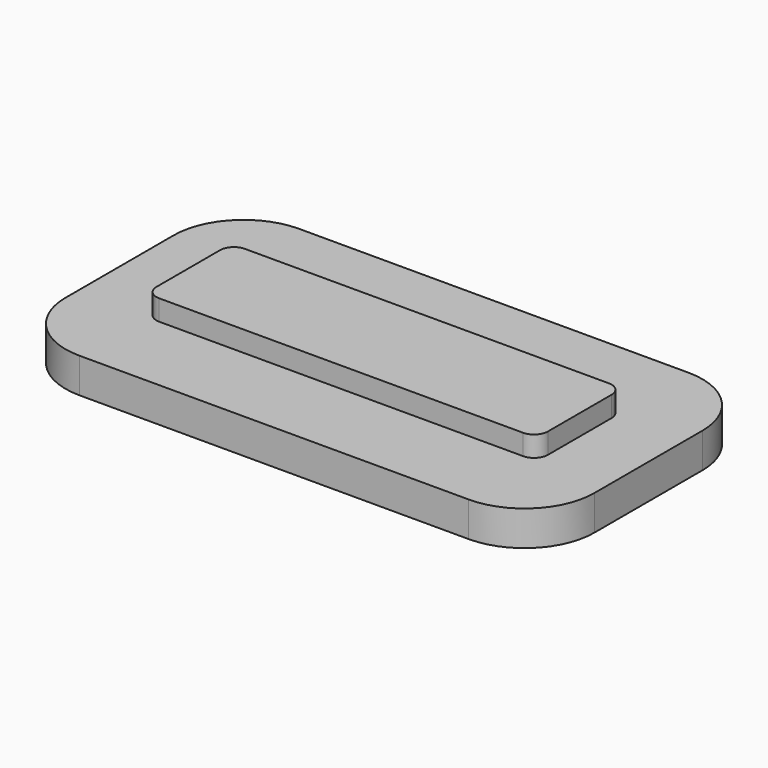
from build123d import *

# Parameters (mm, degrees)
F0_W     = 28.5
F0_H     = 1.4986
F1_DEPTH = 3.9
F2_R     = 1.00076
F3_DEPTH = 10
F4_R     = 5.08


with BuildPart() as f1:
    # F0 (on Front) → F1 (new body, symmetric)
    with BuildSketch(Plane.XZ):
        Rectangle(F0_W, F0_H)
    extrude(amount=F1_DEPTH, both=True)

    # F2
    f2_edges = [f1.edges().sort_by_distance(p)[0] for p in [
        (-14.25, -3.9, 0),
        (-14.25, 3.9, 0),
        (14.25, 3.9, 0),
        (14.25, -3.9, 0),
    ]]
    fillet(f2_edges, radius=F2_R)


with BuildPart() as f3:
    # F0 (on Front) → F3 (new body, symmetric)
    with BuildSketch(Plane.XZ):
        Polygon((19.25, -0.7493), (14.25, -0.7493), (-14.25, -0.7493), (-19.25, -0.7493), (-19.25, -3.2893), (19.25, -3.2893), align=None)
    extrude(amount=F3_DEPTH, both=True)

    # F4
    f4_edges = [f3.edges().sort_by_distance(p)[0] for p in [
        (-19.25, -10, -2.0193),
        (19.25, -10, -2.0193),
        (19.25, 10, -2.0193),
        (-19.25, 10, -2.0193),
    ]]
    fillet(f4_edges, radius=F4_R)


solid = Compound([f1.part, f3.part])
